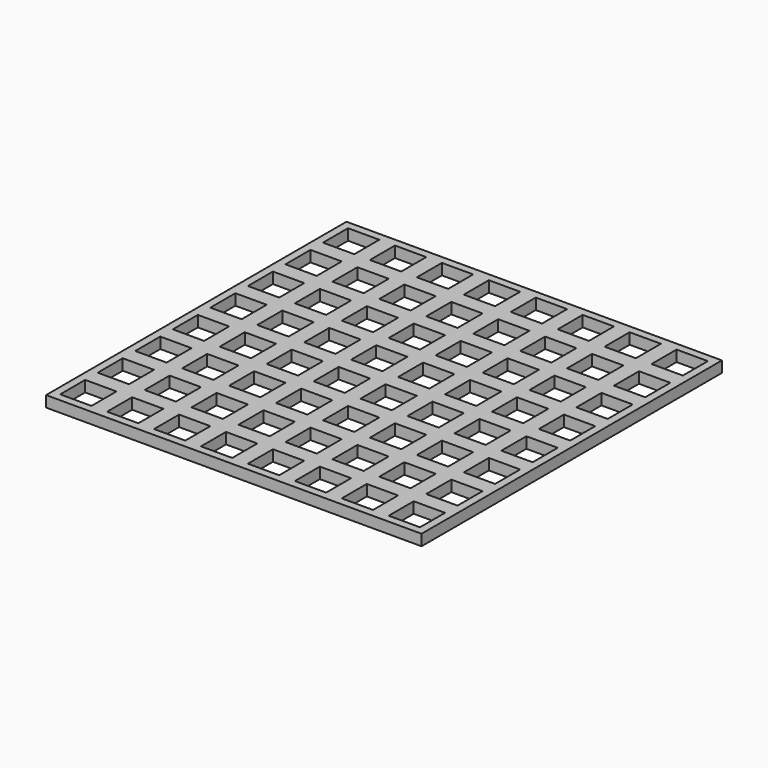
from build123d import *

# Parameters (mm, degrees)
SKETCH_W                     = 102
SKETCH_H                     = 102
PAD_DEPTH                    = 3
SKETCH001_W                  = 8.5
SKETCH001_H                  = 8.5
POCKET_DEPTH                 = 291.562952
SKETCH001_LINEARPATTERN_2_W  = 8.5
SKETCH001_LINEARPATTERN_2_H  = 8.5
POCKET_LINEARPATTERN_2_DEPTH = 291.562952
SKETCH001_LINEARPATTERN_3_W  = 8.5
SKETCH001_LINEARPATTERN_3_H  = 8.5
POCKET_LINEARPATTERN_3_DEPTH = 291.562952
SKETCH001_LINEARPATTERN_4_W  = 8.5
SKETCH001_LINEARPATTERN_4_H  = 8.5
POCKET_LINEARPATTERN_4_DEPTH = 291.562952
SKETCH001_LINEARPATTERN_5_W  = 8.5
SKETCH001_LINEARPATTERN_5_H  = 8.5
POCKET_LINEARPATTERN_5_DEPTH = 291.562952
SKETCH001_LINEARPATTERN_6_W  = 8.5
SKETCH001_LINEARPATTERN_6_H  = 8.5
POCKET_LINEARPATTERN_6_DEPTH = 291.562952
SKETCH001_LINEARPATTERN_7_W  = 8.5
SKETCH001_LINEARPATTERN_7_H  = 8.5
POCKET_LINEARPATTERN_7_DEPTH = 291.562952
SKETCH001_LINEARPATTERN_8_W  = 8.5
SKETCH001_LINEARPATTERN_8_H  = 8.5
POCKET_LINEARPATTERN_8_DEPTH = 291.562952
SKETCH001_LINEARPATTERN_9_W  = 8.5
SKETCH001_LINEARPATTERN_9_H  = 8.5
POCKET_LINEARPATTERN_9_DEPTH = 291.562952
LINEARPATTERN001_COUNT       = 9
LINEARPATTERN001_PITCH       = 12.75


with BuildPart() as part:
    # Sketch → Pad (new body)
    with BuildSketch(Plane.XY):
        with Locations((51, -51)):
            Rectangle(SKETCH_W, SKETCH_H)
    extrude(amount=PAD_DEPTH)

    # Sketch001 (on Face6 of Pad) → Pocket (cut, through all)
    with BuildSketch(Plane.XY.offset(3)):
        with Locations((6.375, -6.375)):
            Rectangle(SKETCH001_W, SKETCH001_H)
    pocket = extrude(amount=-POCKET_DEPTH, mode=Mode.SUBTRACT)

    # Sketch001 LinearPattern 2 → Pocket LinearPattern 2 (cut, through all)
    with BuildSketch(Plane(origin=(12.75, 0, 3), x_dir=(1, 0, 0), z_dir=(0, 0, 1))):
        with Locations((6.375, -6.375)):
            Rectangle(SKETCH001_LINEARPATTERN_2_W, SKETCH001_LINEARPATTERN_2_H)
    pocket_linearpattern_2 = extrude(amount=-POCKET_LINEARPATTERN_2_DEPTH, mode=Mode.SUBTRACT)

    # Sketch001 LinearPattern 3 → Pocket LinearPattern 3 (cut, through all)
    with BuildSketch(Plane(origin=(25.5, 0, 3), x_dir=(1, 0, 0), z_dir=(0, 0, 1))):
        with Locations((6.375, -6.375)):
            Rectangle(SKETCH001_LINEARPATTERN_3_W, SKETCH001_LINEARPATTERN_3_H)
    pocket_linearpattern_3 = extrude(amount=-POCKET_LINEARPATTERN_3_DEPTH, mode=Mode.SUBTRACT)

    # Sketch001 LinearPattern 4 → Pocket LinearPattern 4 (cut, through all)
    with BuildSketch(Plane(origin=(38.25, 0, 3), x_dir=(1, 0, 0), z_dir=(0, 0, 1))):
        with Locations((6.375, -6.375)):
            Rectangle(SKETCH001_LINEARPATTERN_4_W, SKETCH001_LINEARPATTERN_4_H)
    pocket_linearpattern_4 = extrude(amount=-POCKET_LINEARPATTERN_4_DEPTH, mode=Mode.SUBTRACT)

    # Sketch001 LinearPattern 5 → Pocket LinearPattern 5 (cut, through all)
    with BuildSketch(Plane(origin=(51, 0, 3), x_dir=(1, 0, 0), z_dir=(0, 0, 1))):
        with Locations((6.375, -6.375)):
            Rectangle(SKETCH001_LINEARPATTERN_5_W, SKETCH001_LINEARPATTERN_5_H)
    pocket_linearpattern_5 = extrude(amount=-POCKET_LINEARPATTERN_5_DEPTH, mode=Mode.SUBTRACT)

    # Sketch001 LinearPattern 6 → Pocket LinearPattern 6 (cut, through all)
    with BuildSketch(Plane(origin=(63.75, 0, 3), x_dir=(1, 0, 0), z_dir=(0, 0, 1))):
        with Locations((6.375, -6.375)):
            Rectangle(SKETCH001_LINEARPATTERN_6_W, SKETCH001_LINEARPATTERN_6_H)
    pocket_linearpattern_6 = extrude(amount=-POCKET_LINEARPATTERN_6_DEPTH, mode=Mode.SUBTRACT)

    # Sketch001 LinearPattern 7 → Pocket LinearPattern 7 (cut, through all)
    with BuildSketch(Plane(origin=(76.5, 0, 3), x_dir=(1, 0, 0), z_dir=(0, 0, 1))):
        with Locations((6.375, -6.375)):
            Rectangle(SKETCH001_LINEARPATTERN_7_W, SKETCH001_LINEARPATTERN_7_H)
    pocket_linearpattern_7 = extrude(amount=-POCKET_LINEARPATTERN_7_DEPTH, mode=Mode.SUBTRACT)

    # Sketch001 LinearPattern 8 → Pocket LinearPattern 8 (cut, through all)
    with BuildSketch(Plane(origin=(89.25, 0, 3), x_dir=(1, 0, 0), z_dir=(0, 0, 1))):
        with Locations((6.375, -6.375)):
            Rectangle(SKETCH001_LINEARPATTERN_8_W, SKETCH001_LINEARPATTERN_8_H)
    pocket_linearpattern_8 = extrude(amount=-POCKET_LINEARPATTERN_8_DEPTH, mode=Mode.SUBTRACT)

    # Sketch001 LinearPattern 9 → Pocket LinearPattern 9 (cut, through all)
    with BuildSketch(Plane(origin=(102, 0, 3), x_dir=(1, 0, 0), z_dir=(0, 0, 1))):
        with Locations((6.375, -6.375)):
            Rectangle(SKETCH001_LINEARPATTERN_9_W, SKETCH001_LINEARPATTERN_9_H)
    pocket_linearpattern_9 = extrude(amount=-POCKET_LINEARPATTERN_9_DEPTH, mode=Mode.SUBTRACT)

    # LinearPattern001: Pocket, Pocket LinearPattern 2, Pocket LinearPattern 3, Pocket LinearPattern 4, Pocket LinearPattern 5, Pocket LinearPattern 6, Pocket LinearPattern 7, Pocket LinearPattern 8, Pocket LinearPattern 9 ×9
    with Locations(*[(0, -i * LINEARPATTERN001_PITCH, 0) for i in range(1, LINEARPATTERN001_COUNT)]):
        add(pocket, mode=Mode.SUBTRACT)
        add(pocket_linearpattern_2, mode=Mode.SUBTRACT)
        add(pocket_linearpattern_3, mode=Mode.SUBTRACT)
        add(pocket_linearpattern_4, mode=Mode.SUBTRACT)
        add(pocket_linearpattern_5, mode=Mode.SUBTRACT)
        add(pocket_linearpattern_6, mode=Mode.SUBTRACT)
        add(pocket_linearpattern_7, mode=Mode.SUBTRACT)
        add(pocket_linearpattern_8, mode=Mode.SUBTRACT)
        add(pocket_linearpattern_9, mode=Mode.SUBTRACT)


solid = part.part
